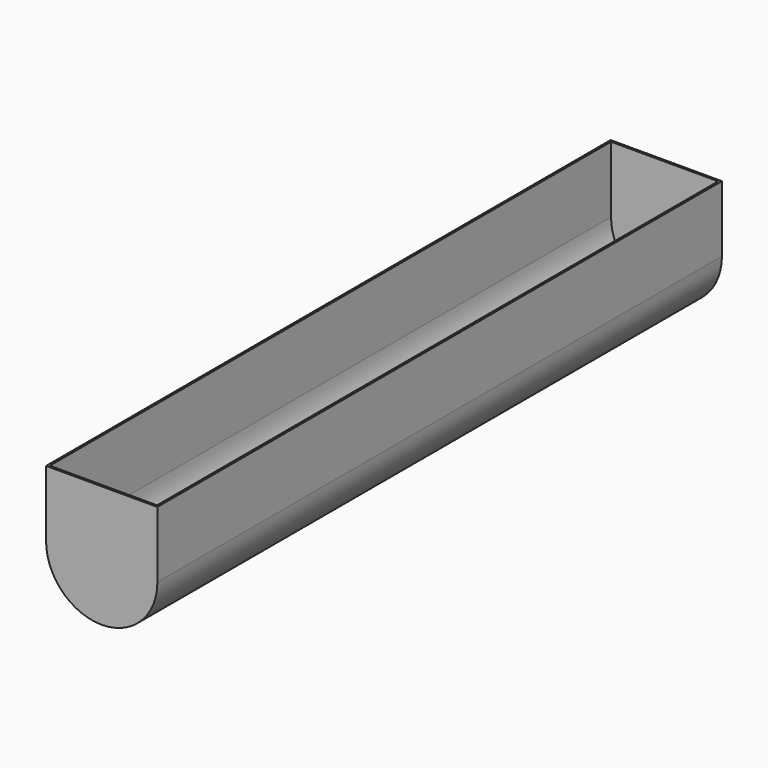
from build123d import *

# Parameters (mm, degrees)
F1_DEPTH = 1066.8
F2_T     = -6.35


with BuildPart() as f1:
    # F0 (on Front) → F1 (new body, symmetric)
    with BuildSketch(Plane.XZ):
        with BuildLine():
            Line((168.275, 0), (-168.275, 0))
            Line((-168.275, 0), (-168.275, -200.025))
            ThreePointArc((-168.275, -200.025), (0, -368.3), (168.275, -200.025))
            Line((168.275, -200.025), (168.275, 0))
        make_face()
    extrude(amount=F1_DEPTH, both=True)

    # F2
    f2_openings = [f1.faces().sort_by_distance(p)[0] for p in [
        (0, 0, 0),
    ]]
    offset(amount=F2_T, openings=f2_openings)


solid = f1.part
